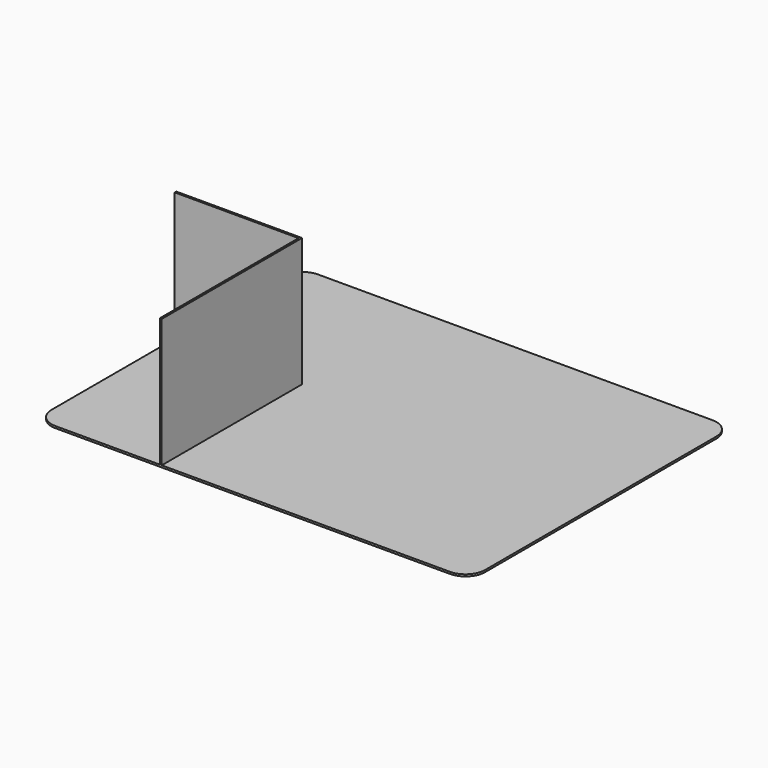
from build123d import *

# Parameters (mm, degrees)
F0_W     = 444.5
F0_H     = 336.55
F1_DEPTH = 2
F3_DEPTH = 132.08
F4_R     = 20


with BuildPart() as f1:
    # F0 (on Top) → F1 (new body)
    with BuildSketch(Plane.XY):
        Rectangle(F0_W, F0_H)
    extrude(amount=F1_DEPTH)

    # F4
    f4_edges = [f1.edges().sort_by_distance(p)[0] for p in [
        (222.25, -168.275, 1),
        (-222.25, -168.275, 1),
        (-222.25, 168.275, 1),
        (222.25, 168.275, 1),
    ]]
    fillet(f4_edges, radius=F4_R)


with BuildPart() as f3:
    # F2 (on face) → F3 (new body)
    with BuildSketch(Plane.XY.offset(2)):
        Polygon((-222.25, 11.525), (-222.25, 9.525), (-95.25, 9.525), (-95.25, -168.275), (-93.25, -168.275), (-93.25, 11.525), align=None)
    extrude(amount=F3_DEPTH)


solid = Compound([f1.part, f3.part])
